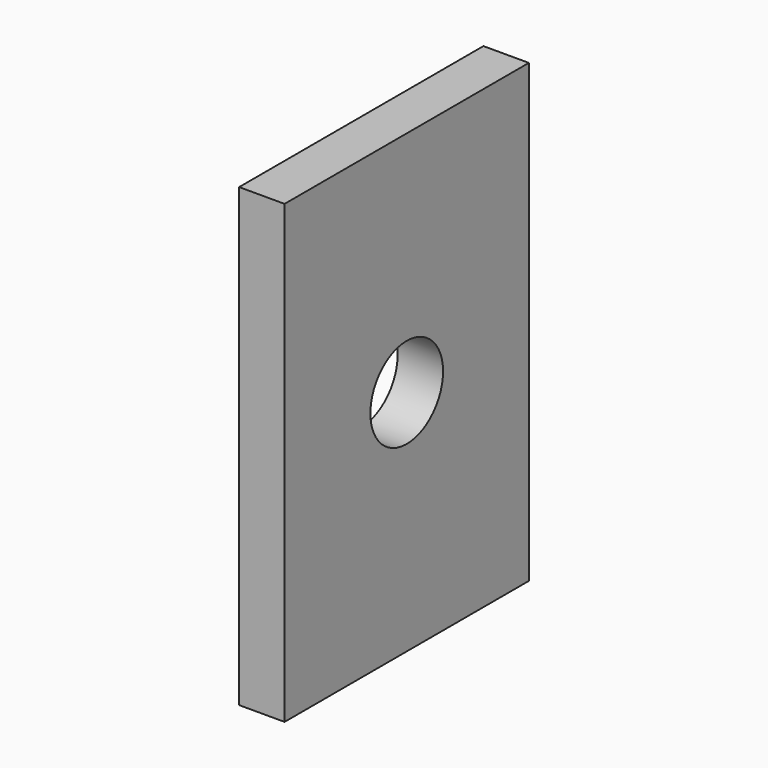
from build123d import *

# Parameters (mm, degrees)
F0_W     = 73.6056677997
F0_H     = 50.1926615834
F0_R     = 5
F1_DEPTH = 5
F3_DEPTH = 20
F4_DEPTH = 20


with BuildPart() as f1:
    # F0 (on Right) → F1 (new body)
    with BuildSketch(Plane.YZ):
        with Locations((-64.2384514213, 25.0963307917)):
            Rectangle(F0_W, F0_H)
        with Locations((-64.2384514213, 25.0963307917)):
            Circle(F0_R, mode=Mode.SUBTRACT)
    extrude(amount=F1_DEPTH)

    # F3 (cut): a face of the model
    f3_faces = [f1.faces().sort_by_distance(p)[0] for p in [
        (2.5, -101.0412853211, 25.0963307917),
    ]]
    extrude(f3_faces, amount=-F3_DEPTH, mode=Mode.SUBTRACT)

    # F4 (cut): a face of the model
    f4_faces = [f1.faces().sort_by_distance(p)[0] for p in [
        (2.5, -27.4356175214, 25.0963307917),
    ]]
    extrude(f4_faces, amount=-F4_DEPTH, mode=Mode.SUBTRACT)


solid = f1.part
